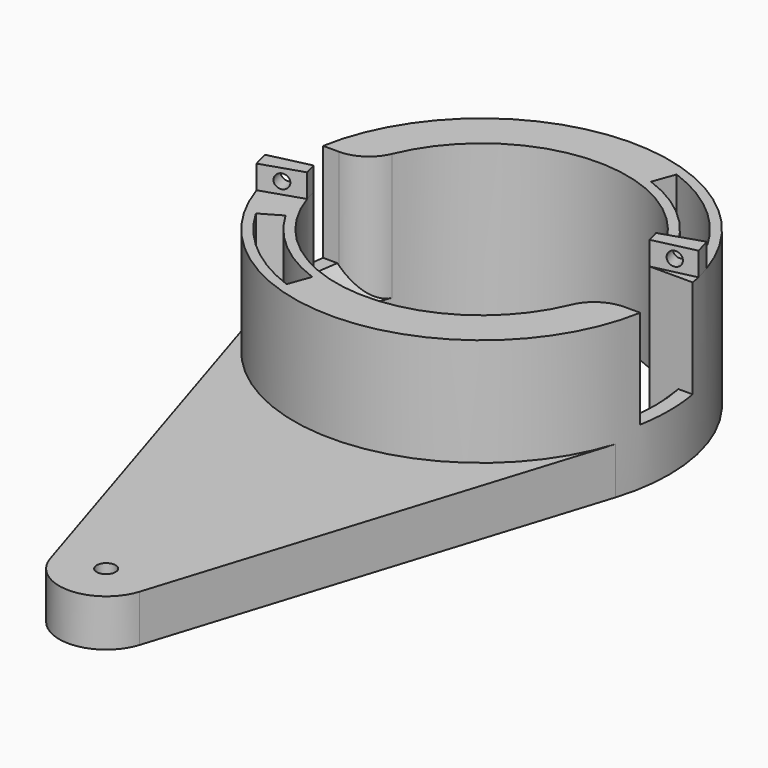
from build123d import *

# Parameters (mm, degrees)
SKETCH022_R        = 40
SKETCH022_R_2      = 31
PAD006_DEPTH       = 33
SKETCH023_W        = 90
SKETCH023_H        = 14
POCKET010_DEPTH    = 21
CHAMFER_SIZE       = 6
POCKET011_DEPTH    = 268.7042032027
POLARPATTERN_COUNT = 2
FILLET001_R        = 8
PAD008_DEPTH       = 5
SKETCH028_R        = 1.5
POCKET013_DEPTH    = 3.5
SKETCH029_R        = 2
PAD009_DEPTH       = 10


with BuildPart() as part:
    # Sketch022 (on DatumPlane) → Pad006 (new body)
    with BuildSketch(Plane.XY.offset(-127.29162)):
        Circle(SKETCH022_R)
        Circle(SKETCH022_R_2, mode=Mode.SUBTRACT)
    extrude(amount=PAD006_DEPTH)

    # Sketch023 (on Face4 of Pad006) → Pocket010 (cut)
    with BuildSketch(Plane.XY.offset(-94.29162)):
        Rectangle(SKETCH023_W, SKETCH023_H)
    extrude(amount=-POCKET010_DEPTH, mode=Mode.SUBTRACT)

    # Chamfer
    chamfer_edges = [part.edges().sort_by_distance(p)[0] for p in [
        (-31, 0, -115.29162),
        (30.799184, -3.522821, -115.29162),
    ]]
    chamfer(chamfer_edges, length=CHAMFER_SIZE)

    # Sketch024 (on Face8 of Chamfer) → Pocket011 (cut, through all)
    with BuildSketch(Plane.XY.offset(-94.29162)):
        with BuildLine():
            ThreePointArc((-32.9089653438, -19), (-24.4259291681, -29.1096888385), (-12.9967654464, -35.7083195899))
            Line((-12.9967654464, -35.7083195899), (-11.2866647297, -31.0098564859))
            ThreePointArc((-28.5788383249, -16.5), (-21.2119911197, -25.2794666229), (-11.2866647297, -31.0098564859))
            Line((-32.9089653438, -19), (-28.5788383249, -16.5))
        make_face()
    pocket011 = extrude(amount=-POCKET011_DEPTH, mode=Mode.SUBTRACT)

    # PolarPattern: Pocket011 ×2 about axis
    polarpattern_axis = Axis((0, 0, -94.29162), (0, 0, 1))
    for i in range(1, POLARPATTERN_COUNT):
        add(pocket011.rotate(polarpattern_axis, i * 360 / POLARPATTERN_COUNT), mode=Mode.SUBTRACT)

    # Fillet001
    fillet001_edges = [part.edges().sort_by_distance(p)[0] for p in [
        (-30.199338, 7, -104.79162),
        (30.199338, -7, -104.79162),
    ]]
    fillet(fillet001_edges, radius=FILLET001_R)

    # Sketch027 (on Face7 of Fillet001) → Pad008 (join)
    with BuildSketch(Plane.XY.offset(-94.29162)):
        with BuildLine():
            ThreePointArc((-30.1993377411, -7), (-29.8652589516, -8.3106141622), (-29.4743299443, -9.6054085979))
            Line((-38.0313934765, -12.3940756103), (-29.4743299443, -9.605408598))
            ThreePointArc((-38.9668874079, -9.0322580645), (-38.5358180021, -10.7233731125), (-38.0313934765, -12.3940756103))
            Line((-38.9668874078, -9.0322580645), (-30.1993377411, -7))
        make_face()
        with BuildLine():
            Line((30.1993377411, 7), (38.9668874078, 9.0322580645))
            ThreePointArc((38.9668874078, 9.0322580645), (38.5358180021, 10.7233731125), (38.0313934765, 12.3940756102))
            Line((38.0313934765, 12.3940756103), (29.4743299443, 9.605408598))
            ThreePointArc((30.1993377411, 7), (29.8652589516, 8.3106141622), (29.4743299443, 9.6054085979))
        make_face()
    extrude(amount=PAD008_DEPTH)

    # Sketch028 (on Face20 of Pad008) → Pocket013 (cut, symmetric)
    with BuildSketch(Plane(origin=(0, 0, -127.29162), x_dir=(0.9507848369, 0.3098518903, 0), z_dir=(0.3098518903, -0.9507848369, 0))):
        with Locations((-35.5, 35.5)):
            Circle(SKETCH028_R)
        with Locations((35.5, 35.5)):
            Circle(SKETCH028_R)
    extrude(amount=POCKET013_DEPTH, both=True, mode=Mode.SUBTRACT)

    # Sketch029 (on Face19 of Pocket013) → Pad009 (join)
    with BuildSketch(Plane(origin=(0, 0, -127.29162), x_dir=(1, 0, 0), z_dir=(0, 0, -1))):
        with BuildLine():
            ThreePointArc((9.5394034408, 102.9999636655), (3e-10, 110), (-9.5394034406, 102.9999636661))
            Line((-9.5394034406, 102.9999636661), (-38.1575696347, 11.9999949821))
            ThreePointArc((38.1575696236, 11.9999950176), (-1.86e-08, 40), (-38.1575696347, 11.9999949821))
            Line((9.5394034408, 102.9999636656), (38.1575696236, 11.9999950176))
        make_face()
        with Locations((0, 100)):
            Circle(SKETCH029_R, mode=Mode.SUBTRACT)
    extrude(amount=-PAD009_DEPTH)


solid = part.part
